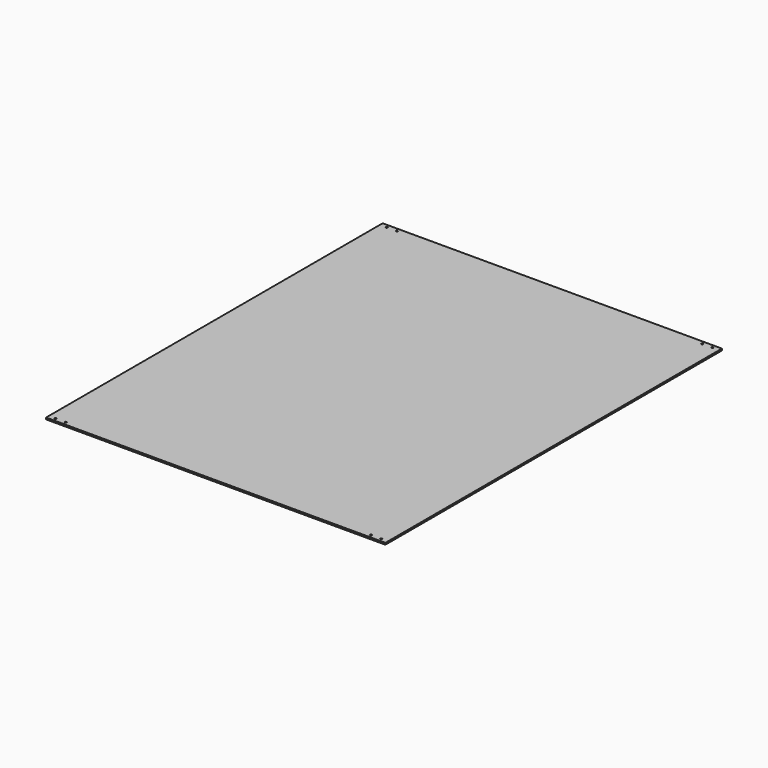
from build123d import *

# Parameters (mm, degrees)
F0_W     = 635
F0_H     = 787.4
F0_R     = 1.5875
F1_DEPTH = 3.175


with BuildPart() as f1:
    # F0 (on Top) → F1 (new body)
    with BuildSketch(Plane.XY):
        with Locations((-18.906738, -10.947095)):
            Rectangle(F0_W, F0_H)
        with Locations((-323.706738, -398.297095)):
            Circle(F0_R, mode=Mode.SUBTRACT)
        with Locations((-304.656738, -398.297095)):
            Circle(F0_R, mode=Mode.SUBTRACT)
        with Locations((266.843262, -398.297095)):
            Circle(F0_R, mode=Mode.SUBTRACT)
        with Locations((285.893262, -398.297095)):
            Circle(F0_R, mode=Mode.SUBTRACT)
        with Locations((-323.706738, 376.402905)):
            Circle(F0_R, mode=Mode.SUBTRACT)
        with Locations((-304.656738, 376.402905)):
            Circle(F0_R, mode=Mode.SUBTRACT)
        with Locations((266.843262, 376.402905)):
            Circle(F0_R, mode=Mode.SUBTRACT)
        with Locations((285.893262, 376.402905)):
            Circle(F0_R, mode=Mode.SUBTRACT)
    extrude(amount=-F1_DEPTH)


solid = f1.part
